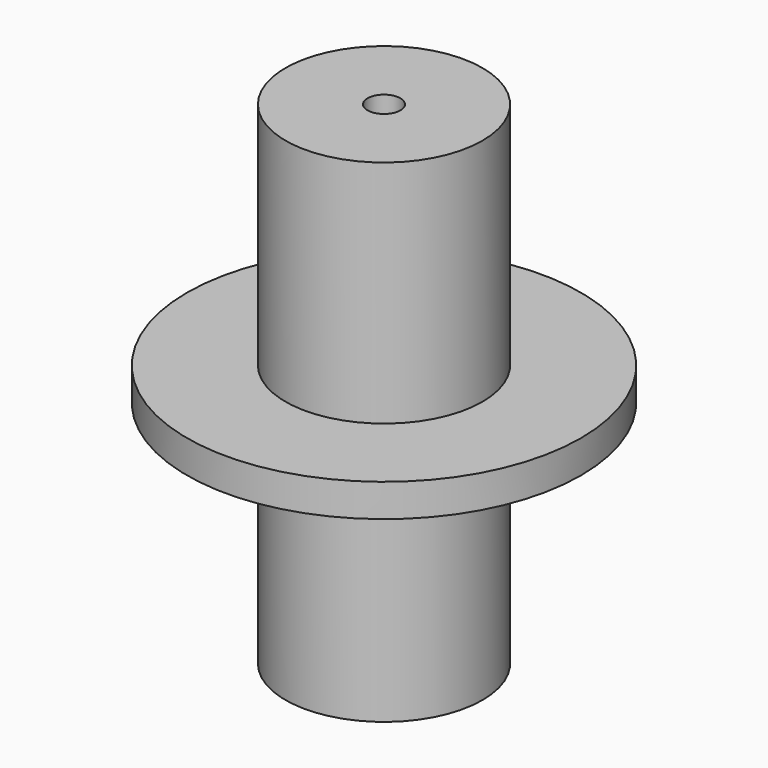
from build123d import *

# Parameters (mm, degrees)
F0_R          = 30
F1_DEPTH      = 150
F2_R          = 25
F3_DEPTH      = 100
F4_R          = 5
F5_DEPTH      = 150.001
F7_R          = 60
F7_R_2        = 30
F8_DEPTH      = 5
F8_DEPTH_BACK = 5


with BuildPart() as f1:
    # F0 (on Top) → F1 (new body)
    with BuildSketch(Plane.XY):
        Circle(F0_R)
    extrude(amount=F1_DEPTH)

    # F2 (on face) → F3 (cut)
    with BuildSketch(Plane(origin=(0, 0, 0), x_dir=(1, 0, 0), z_dir=(0, 0, -1))):
        Circle(F2_R)
    extrude(amount=-F3_DEPTH, mode=Mode.SUBTRACT)

    # F4 (on Top) → F5 (cut, through all)
    with BuildSketch(Plane.XY):
        Circle(F4_R)
    extrude(amount=F5_DEPTH, mode=Mode.SUBTRACT)


with BuildPart() as f8:
    # F7 (on offset) → F8 (new body, two sides)
    with BuildSketch(Plane.XY.offset(75)) as f8_sk:
        Circle(F7_R)
        Circle(F7_R_2, mode=Mode.SUBTRACT)
    extrude(amount=F8_DEPTH)
    extrude(f8_sk.sketch, amount=-F8_DEPTH_BACK)


solid = Compound([f1.part, f8.part])
